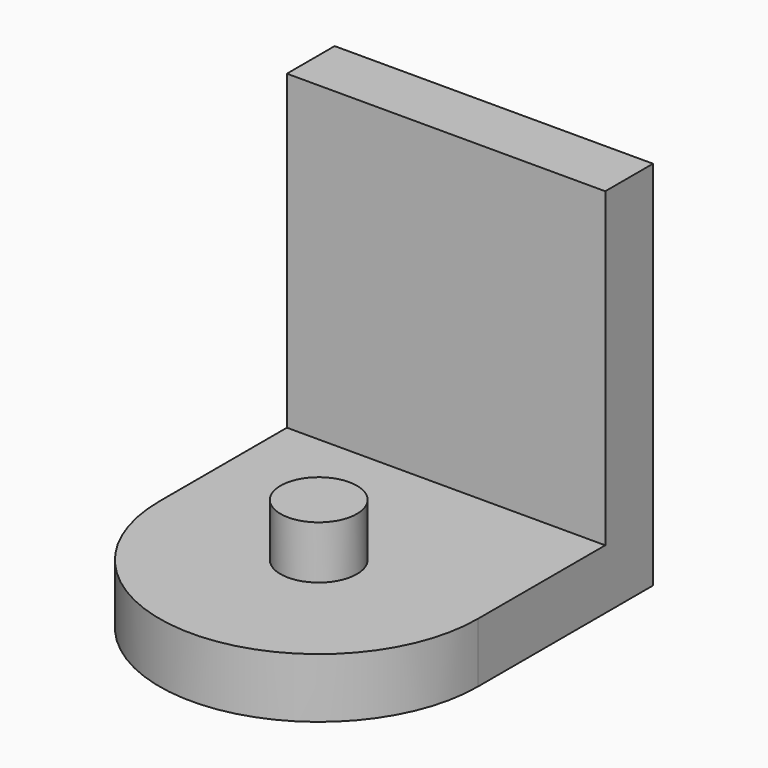
from build123d import *

# Parameters (mm, degrees)
F1_DEPTH = 9.525
F0_W     = 50.8
F0_H     = 9.525
F2_DEPTH = 59.2582
F3_R     = 6.096
F4_DEPTH = 8.4582


with BuildPart() as f1:
    # F0 (on Top) → F1 (new body)
    with BuildSketch(Plane.XY):
        with BuildLine():
            Line((25.4, 25.4), (-25.4, 25.4))
            Line((-25.4, 25.4), (-25.4, 0))
            ThreePointArc((-25.4, 0), (0, -25.4), (25.4, 0))
            Line((25.4, 0), (25.4, 25.4))
        make_face()
    extrude(amount=F1_DEPTH)

    # F0 (on Top) → F2 (join)
    with BuildSketch(Plane.XY):
        with Locations((0, 30.1625)):
            Rectangle(F0_W, F0_H)
    extrude(amount=F2_DEPTH)

    # F3 (on face) → F4 (join)
    with BuildSketch(Plane.XY.offset(9.525)):
        Circle(F3_R)
    extrude(amount=F4_DEPTH)


solid = f1.part
